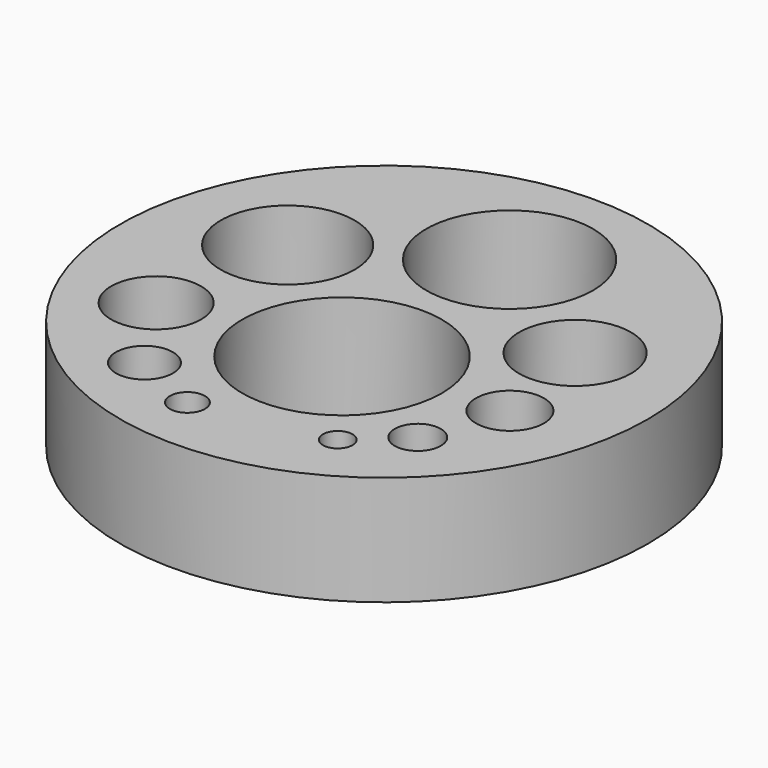
from build123d import *

# Parameters (mm, degrees)
F0_R     = 24.066263
F0_R_2   = 1.6
F0_R_3   = 2.6
F0_R_4   = 4.1
F0_R_5   = 1.35
F0_R_6   = 2.1
F0_R_7   = 9.1
F0_R_8   = 3.1
F0_R_9   = 6.1
F0_R_10  = 5.1
F0_R_11  = 7.6
F1_DEPTH = 10


with BuildPart() as f1:
    # F0 (on Top) → F1 (new body)
    with BuildSketch(Plane.XY):
        with Locations((-1.005103, 6.048779)):
            Circle(F0_R)
        with Locations((-4.158568, -12.422412)):
            Circle(F0_R_2, mode=Mode.SUBTRACT)
        with Locations((-10.376629, -9.546495)):
            Circle(F0_R_3, mode=Mode.SUBTRACT)
        with Locations((-15.493335, -1.821142)):
            Circle(F0_R_4, mode=Mode.SUBTRACT)
        with Locations((7.786282, -10.222344)):
            Circle(F0_R_5, mode=Mode.SUBTRACT)
        with Locations((12.010065, -6.381092)):
            Circle(F0_R_6, mode=Mode.SUBTRACT)
        Circle(F0_R_7, mode=Mode.SUBTRACT)
        with Locations((14.57086, 0.921972)):
            Circle(F0_R_8, mode=Mode.SUBTRACT)
        with Locations((-13.747282, 10.989642)):
            Circle(F0_R_9, mode=Mode.SUBTRACT)
        with Locations((12.622596, 10.781005)):
            Circle(F0_R_10, mode=Mode.SUBTRACT)
        with Locations((0, 19.1)):
            Circle(F0_R_11, mode=Mode.SUBTRACT)
    extrude(amount=F1_DEPTH)


solid = f1.part
